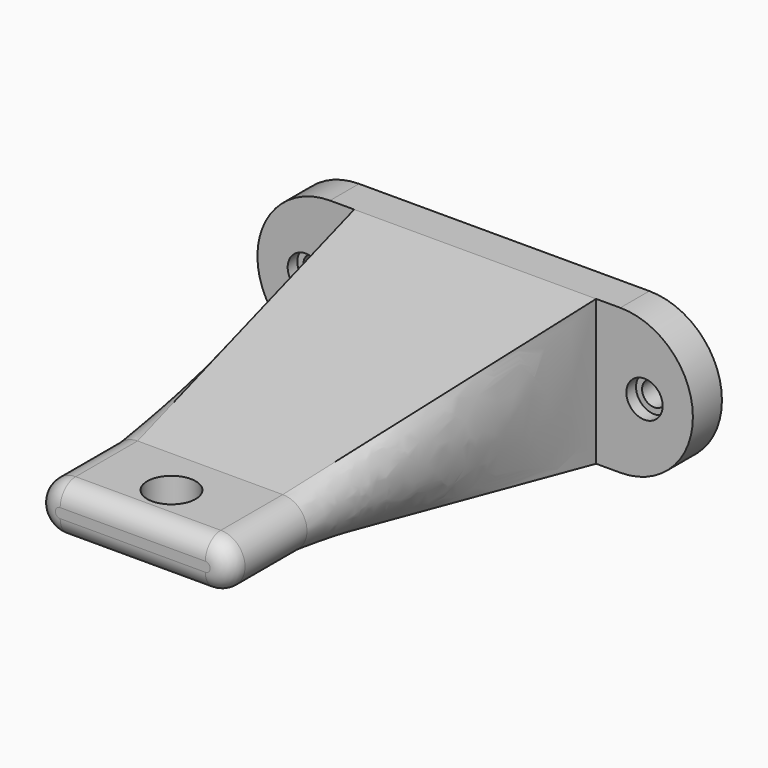
from build123d import *

# Parameters (mm, degrees)
F1_DEPTH       = 9.525
F3_D           = 6.35
F3_CBORE_D     = 9.525
F3_CBORE_DEPTH = 3.175
F4_W           = 63.5
F4_H           = 38.1
F8_DEPTH       = 25.4
F10_D          = 12.7
F11_R          = 5.08


with BuildPart() as f1:
    # F0 (on Front) → F1 (new body)
    with BuildSketch(Plane.XZ):
        with BuildLine():
            Line((34.0762832165, 19.05), (-42.1237167835, 19.05))
            ThreePointArc((-42.1237167835, 19.05), (-61.1737167835, 0), (-42.1237167835, -19.05))
            Line((-42.1237167835, -19.05), (34.0762832165, -19.05))
            ThreePointArc((34.0762832165, -19.05), (53.1262832165, 0), (34.0762832165, 19.05))
        make_face()
    extrude(amount=F1_DEPTH)

    # F3 (through all)
    with Locations(Plane.XZ.offset(9.525)):
        with Locations((-48.4737167835, 0), (40.4262832165, 0)):
            CounterBoreHole(F3_D / 2, F3_CBORE_D / 2, F3_CBORE_DEPTH)

    # F6 (on offset) → F7 section 0
    with BuildSketch(Plane.XZ.offset(98.425)):
        with BuildLine():
            Line((16.6010832165, 6.35), (-21.4989167835, 6.35))
            ThreePointArc((-21.4989167835, 6.35), (-27.8489167835, 0), (-21.4989167835, -6.35))
            Line((-21.4989167835, -6.35), (16.6010832165, -6.35))
            ThreePointArc((16.6010832165, -6.35), (22.9510832165, 0), (16.6010832165, 6.35))
        make_face()
    # F4 (on face) → F7 section 1
    with BuildSketch(Plane.XZ.offset(9.525)):
        with Locations((-4.0237167835, 0)):
            Rectangle(F4_W, F4_H)
    loft()

    # F8 (add): a face of the model
    f8_faces = [f1.faces().sort_by_distance(p)[0] for p in [
        (-2.4489167835, -98.425, 0),
    ]]
    extrude(f8_faces, amount=F8_DEPTH)

    # F10 (through all)
    with Locations(Plane(origin=(0, 0, -6.35), x_dir=(1, 0, 0), z_dir=(0, 0, -1))):
        with Locations((-2.4489167835, 111.125)):
            Hole(F10_D / 2)

    # F11
    f11_edges = [f1.edges().sort_by_distance(p)[0] for p in [
        (-27.848917, -123.825, 0),
        (22.951083, -123.825, 0),
        (-2.448917, -123.825, -6.35),
        (-2.448917, -123.825, 6.35),
    ]]
    fillet(f11_edges, radius=F11_R)


solid = f1.part
